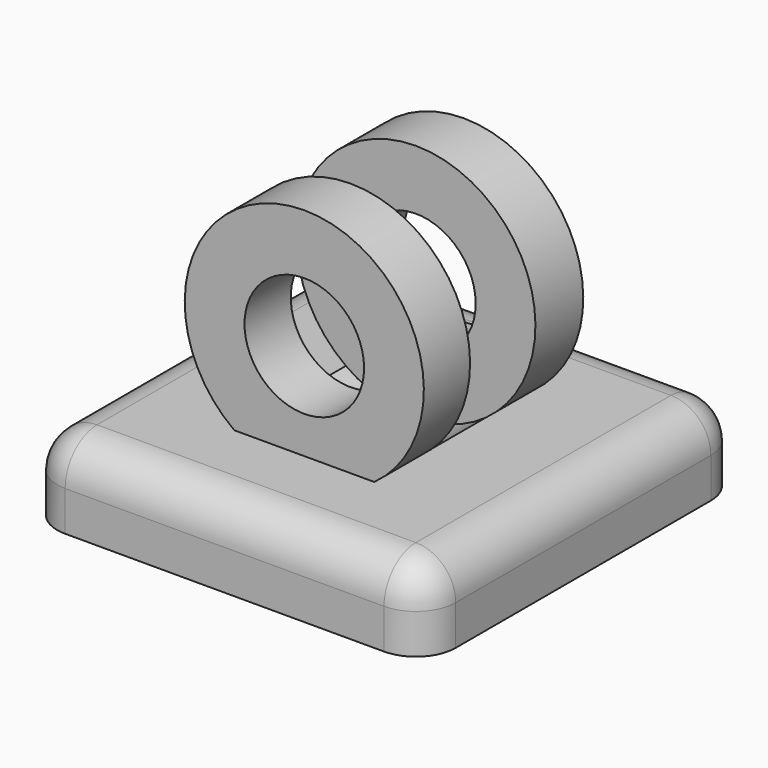
from build123d import *

# Parameters (mm, degrees)
F0_W          = 50
F0_H          = 50
F1_DEPTH      = 10
F2_R          = 5
F3_R          = 5
F4_R          = 15
F4_R_2        = 7.5
F5_DEPTH      = 12.5
F5_DEPTH_BACK = 12.5
F6_DEPTH      = 5
F6_DEPTH_BACK = 5.25


with BuildPart() as f1:
    # F0 (on Top) → F1 (new body)
    with BuildSketch(Plane.XY):
        Rectangle(F0_W, F0_H)
    extrude(amount=F1_DEPTH)

    # F2
    f2_edges = [f1.edges().sort_by_distance(p)[0] for p in [
        (-25, -25, 5),
    ]]
    fillet(f2_edges, radius=F2_R)

    # F3
    f3_edges = [f1.edges().sort_by_distance(p)[0] for p in [
        (25, -25, 5),
        (-25, 25, 5),
        (25, 25, 5),
        (0, 25, 10),
        (25, 0, 10),
        (2.5, -25, 10),
        (-25, 2.5, 10),
    ]]
    fillet(f3_edges, radius=F3_R)

    # F4 (on Front) → F5 (join, two sides)
    with BuildSketch(Plane.XZ) as f5_sk:
        with Locations((0, 22.1625054122)):
            Circle(F4_R)
        with Locations((0, 22.1625054122)):
            Circle(F4_R_2, mode=Mode.SUBTRACT)
    extrude(amount=F5_DEPTH)
    extrude(f5_sk.sketch, amount=-F5_DEPTH_BACK)

    # F4 (on Front) → F6 (cut, two sides)
    with BuildSketch(Plane.XZ) as f6_sk:
        with Locations((0, 22.1625054122)):
            Circle(F4_R)
        with Locations((0, 22.1625054122)):
            Circle(F4_R_2, mode=Mode.SUBTRACT)
    extrude(amount=-F6_DEPTH, mode=Mode.SUBTRACT)
    extrude(f6_sk.sketch, amount=F6_DEPTH_BACK, mode=Mode.SUBTRACT)


solid = f1.part
